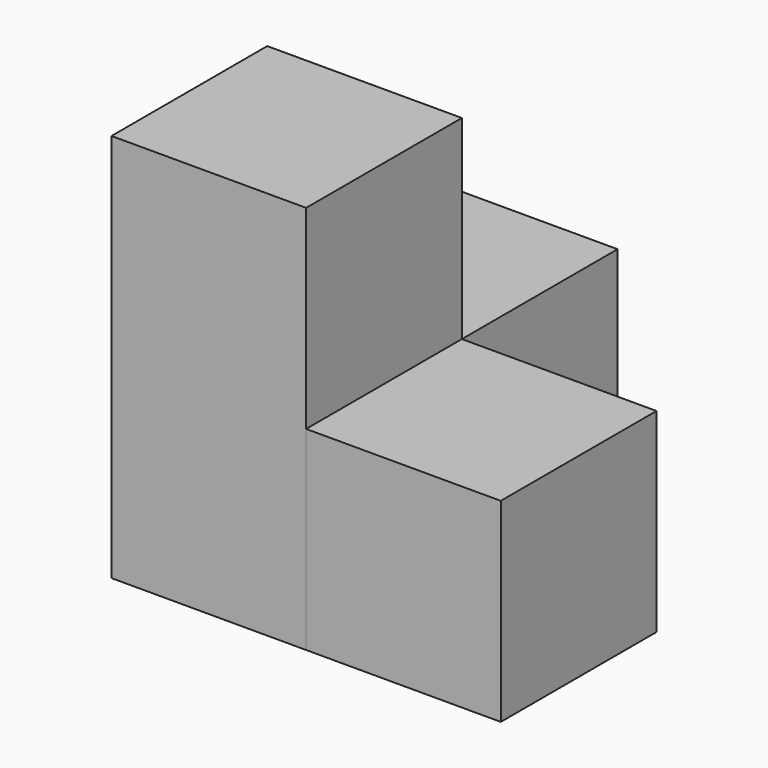
from build123d import *

# Parameters (mm, degrees)
BOX_W        = 10
BOX_H        = 10
BOX_DEPTH    = 10
BOX001_W     = 10
BOX001_H     = 10
BOX001_DEPTH = 10
BOX002_W     = 10
BOX002_H     = 10
BOX002_DEPTH = 10
BOX003_W     = 10
BOX003_H     = 10
BOX003_DEPTH = 20


with BuildPart() as level1_cube1:
    # Box → Box (new body)
    with BuildSketch(Plane.XY.offset(10)):
        with Locations((5, 5)):
            Rectangle(BOX_W, BOX_H)
    extrude(amount=BOX_DEPTH)


with BuildPart() as level2_cube1:
    # Box001 → Box001 (new body)
    with BuildSketch(Plane(origin=(10, 0, 0), x_dir=(1, 0, 0), z_dir=(0, 0, 1))):
        with Locations((5, 5)):
            Rectangle(BOX001_W, BOX001_H)
    extrude(amount=BOX001_DEPTH)


with BuildPart() as level2_cube2:
    # Box002 → Box002 (new body)
    with BuildSketch(Plane(origin=(0, 10, 0), x_dir=(1, 0, 0), z_dir=(0, 0, 1))):
        with Locations((5, 5)):
            Rectangle(BOX002_W, BOX002_H)
    extrude(amount=BOX002_DEPTH)


with BuildPart() as level2_cube3:
    # Box003 → Box003 (new body)
    with BuildSketch(Plane.XY):
        with Locations((5, 5)):
            Rectangle(BOX003_W, BOX003_H)
    extrude(amount=BOX003_DEPTH)


solid = Compound([level1_cube1.part, level2_cube1.part, level2_cube2.part, level2_cube3.part])
